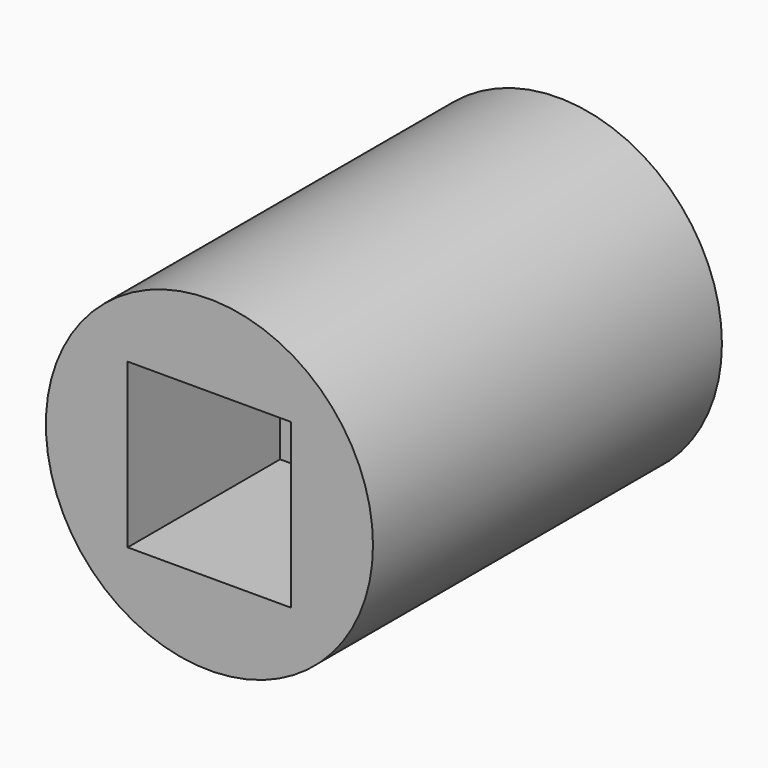
from build123d import *

# Parameters (mm, degrees)
F0_R     = 9.525
F1_DEPTH = 25.4
F3_DEPTH = 25.401
F4_DEPTH = 11.0998
F6_DEPTH = 9.525


with BuildPart() as f1:
    # F0 (on Front) → F1 (new body)
    with BuildSketch(Plane.XZ):
        Circle(F0_R)
    extrude(amount=F1_DEPTH)

    # F2 (on face) → F3 (cut, through all)
    with BuildSketch(Plane.XZ.offset(25.4)):
        with BuildLine():
            ThreePointArc((4.7625, 0), (3.367596, 3.367596), (0, 4.7625))
            ThreePointArc((0, 4.7625), (-3.367596, 3.367596), (-4.7625, 0))
            ThreePointArc((-4.7625, 0), (-3.367596, -3.367596), (0, -4.7625))
            ThreePointArc((0, -4.7625), (3.367596, -3.367596), (4.7625, 0))
        make_face()
    extrude(amount=-F3_DEPTH, mode=Mode.SUBTRACT)

    # F2 (on face) → F4 (cut)
    with BuildSketch(Plane.XZ.offset(25.4)):
        with BuildLine():
            Line((4.7625, 0), (4.7625, 4.7625))
            Line((4.7625, 4.7625), (0, 4.7625))
            ThreePointArc((0, 4.7625), (3.367596, 3.367596), (4.7625, 0))
        make_face()
        with BuildLine():
            ThreePointArc((-4.7625, 0), (-3.367596, 3.367596), (0, 4.7625))
            Line((0, 4.7625), (-4.7625, 4.7625))
            Line((-4.7625, 4.7625), (-4.7625, 0))
        make_face()
        with BuildLine():
            Line((4.7625, -4.7625), (4.7625, 0))
            ThreePointArc((4.7625, 0), (3.367596, -3.367596), (0, -4.7625))
            Line((0, -4.7625), (4.7625, -4.7625))
        make_face()
        with BuildLine():
            ThreePointArc((0, -4.7625), (-3.367596, -3.367596), (-4.7625, 0))
            Line((-4.7625, 0), (-4.7625, -4.7625))
            Line((-4.7625, -4.7625), (0, -4.7625))
        make_face()
    extrude(amount=-F4_DEPTH, mode=Mode.SUBTRACT)

    # F5 (on Front) → F6 (cut)
    with BuildSketch(Plane.XZ):
        Polygon((3.65125, 6.324151), (-3.65125, 6.324151), (-7.3025, 0), (-3.65125, -6.324151), (3.65125, -6.324151), (7.3025, 0), align=None)
    extrude(amount=F6_DEPTH, mode=Mode.SUBTRACT)


solid = f1.part
